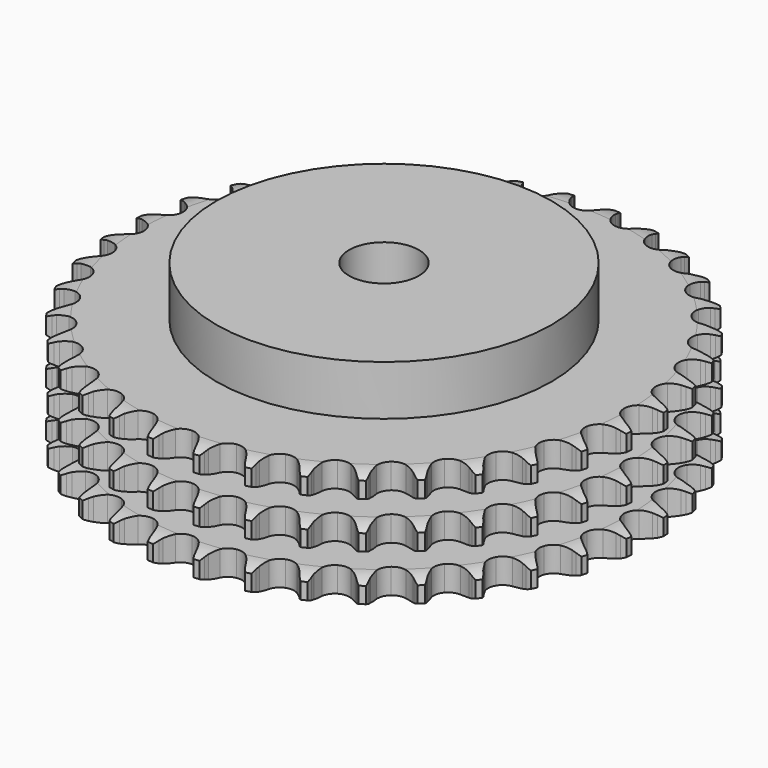
from build123d import *

# Parameters (mm, degrees)
PAD_DEPTH         = 42.1
SKETCH001_R       = 60
PAD001_DEPTH      = 60
SKETCH002_R       = 12.5
POCKET_DEPTH      = 0.001
POCKET_DEPTH_BACK = 60.001


with BuildPart() as part:
    # Sprocket → Pad (new body)
    with BuildSketch(Plane.XY):
        with BuildLine():
            ThreePointArc((-8.372787, 95.701394), (-7.235012, 94.299793), (-6.429379, 92.684252))
            Line((-6.429379, 92.684252), (-5.933775, 91.338848))
            ThreePointArc((-5.933775, 91.338848), (-5.149699, 89.605003), (-4.125721, 88.001114))
            ThreePointArc((-4.125721, 88.001114), (-2.308399, 86.476199), (0, 85.929099))
            ThreePointArc((0, 85.929099), (2.308399, 86.476199), (4.125721, 88.001114))
            ThreePointArc((4.125721, 88.001114), (5.149699, 89.605003), (5.933775, 91.338848))
            Line((5.933775, 91.338848), (6.429379, 92.684252))
            ThreePointArc((6.429379, 92.684252), (7.235012, 94.299793), (8.372787, 95.701394))
            ThreePointArc((8.372787, 95.701394), (9.249892, 94.123514), (9.762749, 92.39262))
            Line((9.762749, 92.39262), (10.017197, 90.981595))
            ThreePointArc((10.017197, 90.981595), (10.488282, 89.137938), (11.218191, 87.380603))
            ThreePointArc((11.218191, 87.380603), (12.743106, 85.563281), (14.921431, 84.623643))
            ThreePointArc((14.921431, 84.623643), (17.289763, 84.761582), (19.344275, 85.947755))
            Line((19.344275, 85.947755), (21.704452, 88.920817))
            ThreePointArc((21.704452, 88.920817), (22.04856, 89.550022), (22.426154, 90.15972))
            ThreePointArc((22.426154, 90.15972), (23.500083, 91.610821), (24.863958, 92.793556))
            ThreePointArc((24.863958, 92.793556), (25.453742, 91.08734), (25.658241, 89.293685))
            Line((25.658241, 89.293685), (25.663802, 87.859912))
            ThreePointArc((25.663802, 87.859912), (25.807582, 85.962461), (26.221244, 84.105077))
            ThreePointArc((26.221244, 84.105077), (27.407417, 82.050565), (29.389483, 80.74694))
            ThreePointArc((29.389483, 80.74694), (31.745787, 80.471528), (33.975063, 81.282918))
            Line((33.975063, 81.282918), (36.81565, 83.800971))
            ThreePointArc((36.81565, 83.800971), (37.263791, 84.360863), (37.741521, 84.89573))
            ThreePointArc((37.741521, 84.89573), (39.051116, 86.1383), (40.599651, 87.066232))
            ThreePointArc((40.599651, 87.066232), (40.884193, 85.283522), (40.77412, 83.481606))
            Line((40.77412, 83.481606), (40.530625, 82.06865))
            ThreePointArc((40.530625, 82.06865), (40.342732, 80.175059), (40.427578, 78.27406))
            ThreePointArc((40.427578, 78.27406), (41.238968, 76.044785), (42.964549, 74.416783))
            ThreePointArc((42.964549, 74.416783), (45.237232, 73.736386), (47.573536, 74.14834))
            Line((47.573536, 74.14834), (50.808224, 76.134876))
            ThreePointArc((50.808224, 76.134876), (51.34678, 76.608443), (51.910132, 77.052227))
            ThreePointArc((51.910132, 77.052227), (53.415601, 78.048511), (55.101743, 78.693445))
            ThreePointArc((55.101743, 78.693445), (55.072398, 76.888408), (54.651099, 75.132981))
            Line((54.651099, 75.132981), (54.165945, 73.783774))
            ThreePointArc((54.165945, 73.783774), (53.652088, 71.951577), (53.40554, 70.064726))
            ThreePointArc((53.40554, 70.064726), (53.817494, 67.728422), (55.23416, 65.825509))
            ThreePointArc((55.23416, 65.825509), (57.354165, 64.760802), (59.726511, 64.760802))
            Line((59.726511, 64.760802), (63.257015, 66.155461))
            ThreePointArc((63.257015, 66.155461), (63.869624, 66.528314), (64.501479, 66.867531))
            ThreePointArc((64.501479, 66.867531), (66.157079, 67.587257), (67.929597, 67.929597))
            ThreePointArc((67.929597, 67.929597), (67.587257, 66.157079), (66.867531, 64.501479))
            Line((66.867531, 64.501479), (66.155461, 63.257015))
            ThreePointArc((66.155461, 63.257015), (65.331252, 61.541884), (64.760802, 59.726511))
            ThreePointArc((64.760802, 59.726511), (64.760802, 57.354165), (65.825509, 55.23416))
            ThreePointArc((65.825509, 55.23416), (67.728422, 53.817494), (70.064726, 53.40554))
            Line((70.064726, 53.40554), (73.783774, 54.165945))
            ThreePointArc((73.783774, 54.165945), (74.451821, 54.426755), (75.132981, 54.651099))
            ThreePointArc((75.132981, 54.651099), (76.888408, 55.072398), (78.693445, 55.101743))
            ThreePointArc((78.693445, 55.101743), (78.048511, 53.415601), (77.052227, 51.910132))
            Line((77.052227, 51.910132), (76.134876, 50.808224))
            ThreePointArc((76.134876, 50.808224), (75.02536, 49.262272), (74.14834, 47.573536))
            ThreePointArc((74.14834, 47.573536), (73.736386, 45.237232), (74.416783, 42.964549))
            ThreePointArc((74.416783, 42.964549), (76.044785, 41.238968), (78.27406, 40.427578))
            Line((78.27406, 40.427578), (82.06865, 40.530625))
            ThreePointArc((82.06865, 40.530625), (82.771838, 40.671468), (83.481606, 40.77412))
            ThreePointArc((83.481606, 40.77412), (85.283522, 40.884193), (87.066232, 40.599651))
            ThreePointArc((87.066232, 40.599651), (86.1383, 39.051116), (84.89573, 37.741521))
            Line((84.89573, 37.741521), (83.800971, 36.81565))
            ThreePointArc((83.800971, 36.81565), (82.43986, 35.48585), (81.282918, 33.975063))
            ThreePointArc((81.282918, 33.975063), (80.471528, 31.745787), (80.74694, 29.389483))
            ThreePointArc((80.74694, 29.389483), (82.050565, 27.407417), (84.105077, 26.221244))
            Line((84.105077, 26.221244), (87.859912, 25.663802))
            ThreePointArc((87.859912, 25.663802), (88.576874, 25.680398), (89.293685, 25.658241))
            ThreePointArc((89.293685, 25.658241), (91.08734, 25.453742), (92.793556, 24.863958))
            ThreePointArc((92.793556, 24.863958), (91.610821, 23.500083), (90.15972, 22.426154))
            Line((90.15972, 22.426154), (88.920817, 21.704452))
            ThreePointArc((88.920817, 21.704452), (87.349466, 20.631209), (85.947755, 19.344275))
            ThreePointArc((85.947755, 19.344275), (84.761582, 17.289763), (84.623643, 14.921431))
            ThreePointArc((84.623643, 14.921431), (85.563281, 12.743106), (87.380603, 11.218191))
            Line((87.380603, 11.218191), (90.981595, 10.017197))
            ThreePointArc((90.981595, 10.017197), (91.690546, 9.909042), (92.39262, 9.762749))
            ThreePointArc((92.39262, 9.762749), (94.123514, 9.249892), (95.701394, 8.372787))
            ThreePointArc((95.701394, 8.372787), (94.299793, 7.235012), (92.684252, 6.429379))
            Line((92.684252, 6.429379), (91.338848, 5.933775))
            ThreePointArc((91.338848, 5.933775), (89.605003, 5.149699), (88.001114, 4.125721))
            ThreePointArc((88.001114, 4.125721), (86.476199, 2.308399), (85.929099, 0))
            ThreePointArc((85.929099, 0), (86.476199, -2.308399), (88.001114, -4.125721))
            Line((88.001114, -4.125721), (91.338848, -5.933775))
            ThreePointArc((91.338848, -5.933775), (92.018248, -6.163395), (92.684252, -6.429379))
            ThreePointArc((92.684252, -6.429379), (94.299793, -7.235012), (95.701394, -8.372787))
            ThreePointArc((95.701394, -8.372787), (94.123514, -9.249892), (92.39262, -9.762749))
            Line((92.39262, -9.762749), (90.981595, -10.017197))
            ThreePointArc((90.981595, -10.017197), (89.137938, -10.488282), (87.380603, -11.218191))
            ThreePointArc((87.380603, -11.218191), (85.563281, -12.743106), (84.623643, -14.921431))
            ThreePointArc((84.623643, -14.921431), (84.761582, -17.289763), (85.947755, -19.344275))
            Line((85.947755, -19.344275), (88.920817, -21.704452))
            ThreePointArc((88.920817, -21.704452), (89.550022, -22.04856), (90.15972, -22.426154))
            ThreePointArc((90.15972, -22.426154), (91.610821, -23.500083), (92.793556, -24.863958))
            ThreePointArc((92.793556, -24.863958), (91.08734, -25.453742), (89.293685, -25.658241))
            Line((89.293685, -25.658241), (87.859912, -25.663802))
            ThreePointArc((87.859912, -25.663802), (85.962461, -25.807582), (84.105077, -26.221244))
            ThreePointArc((84.105077, -26.221244), (82.050565, -27.407417), (80.74694, -29.389483))
            ThreePointArc((80.74694, -29.389483), (80.471528, -31.745787), (81.282918, -33.975063))
            Line((81.282918, -33.975063), (83.800971, -36.81565))
            ThreePointArc((83.800971, -36.81565), (84.360863, -37.263791), (84.89573, -37.741521))
            ThreePointArc((84.89573, -37.741521), (86.1383, -39.051116), (87.066232, -40.599651))
            ThreePointArc((87.066232, -40.599651), (85.283522, -40.884193), (83.481606, -40.77412))
            Line((83.481606, -40.77412), (82.06865, -40.530625))
            ThreePointArc((82.06865, -40.530625), (80.175059, -40.342732), (78.27406, -40.427578))
            ThreePointArc((78.27406, -40.427578), (76.044785, -41.238968), (74.416783, -42.964549))
            ThreePointArc((74.416783, -42.964549), (73.736386, -45.237232), (74.14834, -47.573536))
            Line((74.14834, -47.573536), (76.134876, -50.808224))
            ThreePointArc((76.134876, -50.808224), (76.608443, -51.34678), (77.052227, -51.910132))
            ThreePointArc((77.052227, -51.910132), (78.048511, -53.415601), (78.693445, -55.101743))
            ThreePointArc((78.693445, -55.101743), (76.888408, -55.072398), (75.132981, -54.651099))
            Line((75.132981, -54.651099), (73.783774, -54.165945))
            ThreePointArc((73.783774, -54.165945), (71.951577, -53.652088), (70.064726, -53.40554))
            ThreePointArc((70.064726, -53.40554), (67.728422, -53.817494), (65.825509, -55.23416))
            ThreePointArc((65.825509, -55.23416), (64.760802, -57.354165), (64.760802, -59.726511))
            Line((64.760802, -59.726511), (66.155461, -63.257015))
            ThreePointArc((66.155461, -63.257015), (66.528314, -63.869624), (66.867531, -64.501479))
            ThreePointArc((66.867531, -64.501479), (67.587257, -66.157079), (67.929597, -67.929597))
            ThreePointArc((67.929597, -67.929597), (66.157079, -67.587257), (64.501479, -66.867531))
            Line((64.501479, -66.867531), (63.257015, -66.155461))
            ThreePointArc((63.257015, -66.155461), (61.541884, -65.331252), (59.726511, -64.760802))
            ThreePointArc((59.726511, -64.760802), (57.354165, -64.760802), (55.23416, -65.825509))
            ThreePointArc((55.23416, -65.825509), (53.817494, -67.728422), (53.40554, -70.064726))
            Line((53.40554, -70.064726), (54.165945, -73.783774))
            ThreePointArc((54.165945, -73.783774), (54.426755, -74.451821), (54.651099, -75.132981))
            ThreePointArc((54.651099, -75.132981), (55.072398, -76.888408), (55.101743, -78.693445))
            ThreePointArc((55.101743, -78.693445), (53.415601, -78.048511), (51.910132, -77.052227))
            Line((51.910132, -77.052227), (50.808224, -76.134876))
            ThreePointArc((50.808224, -76.134876), (49.262272, -75.02536), (47.573536, -74.14834))
            ThreePointArc((47.573536, -74.14834), (45.237232, -73.736386), (42.964549, -74.416783))
            ThreePointArc((42.964549, -74.416783), (41.238968, -76.044785), (40.427578, -78.27406))
            Line((40.427578, -78.27406), (40.530625, -82.06865))
            ThreePointArc((40.530625, -82.06865), (40.671468, -82.771838), (40.77412, -83.481606))
            ThreePointArc((40.77412, -83.481606), (40.884193, -85.283522), (40.599651, -87.066232))
            ThreePointArc((40.599651, -87.066232), (39.051116, -86.1383), (37.741521, -84.89573))
            Line((37.741521, -84.89573), (36.81565, -83.800971))
            ThreePointArc((36.81565, -83.800971), (35.48585, -82.43986), (33.975063, -81.282918))
            ThreePointArc((33.975063, -81.282918), (31.745787, -80.471528), (29.389483, -80.74694))
            ThreePointArc((29.389483, -80.74694), (27.407417, -82.050565), (26.221244, -84.105077))
            Line((26.221244, -84.105077), (25.663802, -87.859912))
            ThreePointArc((25.663802, -87.859912), (25.680398, -88.576874), (25.658241, -89.293685))
            ThreePointArc((25.658241, -89.293685), (25.453742, -91.08734), (24.863958, -92.793556))
            ThreePointArc((24.863958, -92.793556), (23.500083, -91.610821), (22.426154, -90.15972))
            Line((22.426154, -90.15972), (21.704452, -88.920817))
            ThreePointArc((21.704452, -88.920817), (20.631209, -87.349466), (19.344275, -85.947755))
            ThreePointArc((19.344275, -85.947755), (17.289763, -84.761582), (14.921431, -84.623643))
            ThreePointArc((14.921431, -84.623643), (12.743106, -85.563281), (11.218191, -87.380603))
            Line((11.218191, -87.380603), (10.017197, -90.981595))
            ThreePointArc((10.017197, -90.981595), (9.909042, -91.690546), (9.762749, -92.39262))
            ThreePointArc((9.762749, -92.39262), (9.249892, -94.123514), (8.372787, -95.701394))
            ThreePointArc((8.372787, -95.701394), (7.235012, -94.299793), (6.429379, -92.684252))
            Line((6.429379, -92.684252), (5.933775, -91.338848))
            ThreePointArc((5.933775, -91.338848), (5.149699, -89.605003), (4.125721, -88.001114))
            ThreePointArc((4.125721, -88.001114), (2.308399, -86.476199), (0, -85.929099))
            ThreePointArc((0, -85.929099), (-2.308399, -86.476199), (-4.125721, -88.001114))
            Line((-4.125721, -88.001114), (-5.933775, -91.338848))
            ThreePointArc((-5.933775, -91.338848), (-6.163395, -92.018248), (-6.429379, -92.684252))
            ThreePointArc((-6.429379, -92.684252), (-7.235012, -94.299793), (-8.372787, -95.701394))
            ThreePointArc((-8.372787, -95.701394), (-9.249892, -94.123514), (-9.762749, -92.39262))
            Line((-9.762749, -92.39262), (-10.017197, -90.981595))
            ThreePointArc((-10.017197, -90.981595), (-10.488282, -89.137938), (-11.218191, -87.380603))
            ThreePointArc((-11.218191, -87.380603), (-12.743106, -85.563281), (-14.921431, -84.623643))
            ThreePointArc((-14.921431, -84.623643), (-17.289763, -84.761582), (-19.344275, -85.947755))
            Line((-19.344275, -85.947755), (-21.704452, -88.920817))
            ThreePointArc((-21.704452, -88.920817), (-22.04856, -89.550022), (-22.426154, -90.15972))
            ThreePointArc((-22.426154, -90.15972), (-23.500083, -91.610821), (-24.863958, -92.793556))
            ThreePointArc((-24.863958, -92.793556), (-25.453742, -91.08734), (-25.658241, -89.293685))
            Line((-25.658241, -89.293685), (-25.663802, -87.859912))
            ThreePointArc((-25.663802, -87.859912), (-25.807582, -85.962461), (-26.221244, -84.105077))
            ThreePointArc((-26.221244, -84.105077), (-27.407417, -82.050565), (-29.389483, -80.74694))
            ThreePointArc((-29.389483, -80.74694), (-31.745787, -80.471528), (-33.975063, -81.282918))
            Line((-33.975063, -81.282918), (-36.81565, -83.800971))
            ThreePointArc((-36.81565, -83.800971), (-37.263791, -84.360863), (-37.741521, -84.89573))
            ThreePointArc((-37.741521, -84.89573), (-39.051116, -86.1383), (-40.599651, -87.066232))
            ThreePointArc((-40.599651, -87.066232), (-40.884193, -85.283522), (-40.77412, -83.481606))
            Line((-40.77412, -83.481606), (-40.530625, -82.06865))
            ThreePointArc((-40.530625, -82.06865), (-40.342732, -80.175059), (-40.427578, -78.27406))
            ThreePointArc((-40.427578, -78.27406), (-41.238968, -76.044785), (-42.964549, -74.416783))
            ThreePointArc((-42.964549, -74.416783), (-45.237232, -73.736386), (-47.573536, -74.14834))
            Line((-47.573536, -74.14834), (-50.808224, -76.134876))
            ThreePointArc((-50.808224, -76.134876), (-51.34678, -76.608443), (-51.910132, -77.052227))
            ThreePointArc((-51.910132, -77.052227), (-53.415601, -78.048511), (-55.101743, -78.693445))
            ThreePointArc((-55.101743, -78.693445), (-55.072398, -76.888408), (-54.651099, -75.132981))
            Line((-54.651099, -75.132981), (-54.165945, -73.783774))
            ThreePointArc((-54.165945, -73.783774), (-53.652088, -71.951577), (-53.40554, -70.064726))
            ThreePointArc((-53.40554, -70.064726), (-53.817494, -67.728422), (-55.23416, -65.825509))
            ThreePointArc((-55.23416, -65.825509), (-57.354165, -64.760802), (-59.726511, -64.760802))
            Line((-59.726511, -64.760802), (-63.257015, -66.155461))
            ThreePointArc((-63.257015, -66.155461), (-63.869624, -66.528314), (-64.501479, -66.867531))
            ThreePointArc((-64.501479, -66.867531), (-66.157079, -67.587257), (-67.929597, -67.929597))
            ThreePointArc((-67.929597, -67.929597), (-67.587257, -66.157079), (-66.867531, -64.501479))
            Line((-66.867531, -64.501479), (-66.155461, -63.257015))
            ThreePointArc((-66.155461, -63.257015), (-65.331252, -61.541884), (-64.760802, -59.726511))
            ThreePointArc((-64.760802, -59.726511), (-64.760802, -57.354165), (-65.825509, -55.23416))
            ThreePointArc((-65.825509, -55.23416), (-67.728422, -53.817494), (-70.064726, -53.40554))
            Line((-70.064726, -53.40554), (-73.783774, -54.165945))
            ThreePointArc((-73.783774, -54.165945), (-74.451821, -54.426755), (-75.132981, -54.651099))
            ThreePointArc((-75.132981, -54.651099), (-76.888408, -55.072398), (-78.693445, -55.101743))
            ThreePointArc((-78.693445, -55.101743), (-78.048511, -53.415601), (-77.052227, -51.910132))
            Line((-77.052227, -51.910132), (-76.134876, -50.808224))
            ThreePointArc((-76.134876, -50.808224), (-75.02536, -49.262272), (-74.14834, -47.573536))
            ThreePointArc((-74.14834, -47.573536), (-73.736386, -45.237232), (-74.416783, -42.964549))
            ThreePointArc((-74.416783, -42.964549), (-76.044785, -41.238968), (-78.27406, -40.427578))
            Line((-78.27406, -40.427578), (-82.06865, -40.530625))
            ThreePointArc((-82.06865, -40.530625), (-82.771838, -40.671468), (-83.481606, -40.77412))
            ThreePointArc((-83.481606, -40.77412), (-85.283522, -40.884193), (-87.066232, -40.599651))
            ThreePointArc((-87.066232, -40.599651), (-86.1383, -39.051116), (-84.89573, -37.741521))
            Line((-84.89573, -37.741521), (-83.800971, -36.81565))
            ThreePointArc((-83.800971, -36.81565), (-82.43986, -35.48585), (-81.282918, -33.975063))
            ThreePointArc((-81.282918, -33.975063), (-80.471528, -31.745787), (-80.74694, -29.389483))
            ThreePointArc((-80.74694, -29.389483), (-82.050565, -27.407417), (-84.105077, -26.221244))
            Line((-84.105077, -26.221244), (-87.859912, -25.663802))
            ThreePointArc((-87.859912, -25.663802), (-88.576874, -25.680398), (-89.293685, -25.658241))
            ThreePointArc((-89.293685, -25.658241), (-91.08734, -25.453742), (-92.793556, -24.863958))
            ThreePointArc((-92.793556, -24.863958), (-91.610821, -23.500083), (-90.15972, -22.426154))
            Line((-90.15972, -22.426154), (-88.920817, -21.704452))
            ThreePointArc((-88.920817, -21.704452), (-87.349466, -20.631209), (-85.947755, -19.344275))
            ThreePointArc((-85.947755, -19.344275), (-84.761582, -17.289763), (-84.623643, -14.921431))
            ThreePointArc((-84.623643, -14.921431), (-85.563281, -12.743106), (-87.380603, -11.218191))
            Line((-87.380603, -11.218191), (-90.981595, -10.017197))
            ThreePointArc((-90.981595, -10.017197), (-91.690546, -9.909042), (-92.39262, -9.762749))
            ThreePointArc((-92.39262, -9.762749), (-94.123514, -9.249892), (-95.701394, -8.372787))
            ThreePointArc((-95.701394, -8.372787), (-94.299793, -7.235012), (-92.684252, -6.429379))
            Line((-92.684252, -6.429379), (-91.338848, -5.933775))
            ThreePointArc((-91.338848, -5.933775), (-89.605003, -5.149699), (-88.001114, -4.125721))
            ThreePointArc((-88.001114, -4.125721), (-86.476199, -2.308399), (-85.929099, 0))
            ThreePointArc((-85.929099, 0), (-86.476199, 2.308399), (-88.001114, 4.125721))
            Line((-88.001114, 4.125721), (-91.338848, 5.933775))
            ThreePointArc((-91.338848, 5.933775), (-92.018248, 6.163395), (-92.684252, 6.429379))
            ThreePointArc((-92.684252, 6.429379), (-94.299793, 7.235012), (-95.701394, 8.372787))
            ThreePointArc((-95.701394, 8.372787), (-94.123514, 9.249892), (-92.39262, 9.762749))
            Line((-92.39262, 9.762749), (-90.981595, 10.017197))
            ThreePointArc((-90.981595, 10.017197), (-89.137938, 10.488282), (-87.380603, 11.218191))
            ThreePointArc((-87.380603, 11.218191), (-85.563281, 12.743106), (-84.623643, 14.921431))
            ThreePointArc((-84.623643, 14.921431), (-84.761582, 17.289763), (-85.947755, 19.344275))
            Line((-85.947755, 19.344275), (-88.920817, 21.704452))
            ThreePointArc((-88.920817, 21.704452), (-89.550022, 22.04856), (-90.15972, 22.426154))
            ThreePointArc((-90.15972, 22.426154), (-91.610821, 23.500083), (-92.793556, 24.863958))
            ThreePointArc((-92.793556, 24.863958), (-91.08734, 25.453742), (-89.293685, 25.658241))
            Line((-89.293685, 25.658241), (-87.859912, 25.663802))
            ThreePointArc((-87.859912, 25.663802), (-85.962461, 25.807582), (-84.105077, 26.221244))
            ThreePointArc((-84.105077, 26.221244), (-82.050565, 27.407417), (-80.74694, 29.389483))
            ThreePointArc((-80.74694, 29.389483), (-80.471528, 31.745787), (-81.282918, 33.975063))
            Line((-81.282918, 33.975063), (-83.800971, 36.81565))
            ThreePointArc((-83.800971, 36.81565), (-84.360863, 37.263791), (-84.89573, 37.741521))
            ThreePointArc((-84.89573, 37.741521), (-86.1383, 39.051116), (-87.066232, 40.599651))
            ThreePointArc((-87.066232, 40.599651), (-85.283522, 40.884193), (-83.481606, 40.77412))
            Line((-83.481606, 40.77412), (-82.06865, 40.530625))
            ThreePointArc((-82.06865, 40.530625), (-80.175059, 40.342732), (-78.27406, 40.427578))
            ThreePointArc((-78.27406, 40.427578), (-76.044785, 41.238968), (-74.416783, 42.964549))
            ThreePointArc((-74.416783, 42.964549), (-73.736386, 45.237232), (-74.14834, 47.573536))
            Line((-74.14834, 47.573536), (-76.134876, 50.808224))
            ThreePointArc((-76.134876, 50.808224), (-76.608443, 51.34678), (-77.052227, 51.910132))
            ThreePointArc((-77.052227, 51.910132), (-78.048511, 53.415601), (-78.693445, 55.101743))
            ThreePointArc((-78.693445, 55.101743), (-76.888408, 55.072398), (-75.132981, 54.651099))
            Line((-75.132981, 54.651099), (-73.783774, 54.165945))
            ThreePointArc((-73.783774, 54.165945), (-71.951577, 53.652088), (-70.064726, 53.40554))
            ThreePointArc((-70.064726, 53.40554), (-67.728422, 53.817494), (-65.825509, 55.23416))
            ThreePointArc((-65.825509, 55.23416), (-64.760802, 57.354165), (-64.760802, 59.726511))
            Line((-64.760802, 59.726511), (-66.155461, 63.257015))
            ThreePointArc((-66.155461, 63.257015), (-66.528314, 63.869624), (-66.867531, 64.501479))
            ThreePointArc((-66.867531, 64.501479), (-67.587257, 66.157079), (-67.929597, 67.929597))
            ThreePointArc((-67.929597, 67.929597), (-66.157079, 67.587257), (-64.501479, 66.867531))
            Line((-64.501479, 66.867531), (-63.257015, 66.155461))
            ThreePointArc((-63.257015, 66.155461), (-61.541884, 65.331252), (-59.726511, 64.760802))
            ThreePointArc((-59.726511, 64.760802), (-57.354165, 64.760802), (-55.23416, 65.825509))
            ThreePointArc((-55.23416, 65.825509), (-53.817494, 67.728422), (-53.40554, 70.064726))
            Line((-53.40554, 70.064726), (-54.165945, 73.783774))
            ThreePointArc((-54.165945, 73.783774), (-54.426755, 74.451821), (-54.651099, 75.132981))
            ThreePointArc((-54.651099, 75.132981), (-55.072398, 76.888408), (-55.101743, 78.693445))
            ThreePointArc((-55.101743, 78.693445), (-53.415601, 78.048511), (-51.910132, 77.052227))
            Line((-51.910132, 77.052227), (-50.808224, 76.134876))
            ThreePointArc((-50.808224, 76.134876), (-49.262272, 75.02536), (-47.573536, 74.14834))
            ThreePointArc((-47.573536, 74.14834), (-45.237232, 73.736386), (-42.964549, 74.416783))
            ThreePointArc((-42.964549, 74.416783), (-41.238968, 76.044785), (-40.427578, 78.27406))
            Line((-40.427578, 78.27406), (-40.530625, 82.06865))
            ThreePointArc((-40.530625, 82.06865), (-40.671468, 82.771838), (-40.77412, 83.481606))
            ThreePointArc((-40.77412, 83.481606), (-40.884193, 85.283522), (-40.599651, 87.066232))
            ThreePointArc((-40.599651, 87.066232), (-39.051116, 86.1383), (-37.741521, 84.89573))
            Line((-37.741521, 84.89573), (-36.81565, 83.800971))
            ThreePointArc((-36.81565, 83.800971), (-35.48585, 82.43986), (-33.975063, 81.282918))
            ThreePointArc((-33.975063, 81.282918), (-31.745787, 80.471528), (-29.389483, 80.74694))
            ThreePointArc((-29.389483, 80.74694), (-27.407417, 82.050565), (-26.221244, 84.105077))
            Line((-26.221244, 84.105077), (-25.663802, 87.859912))
            ThreePointArc((-25.663802, 87.859912), (-25.680398, 88.576874), (-25.658241, 89.293685))
            ThreePointArc((-25.658241, 89.293685), (-25.453742, 91.08734), (-24.863958, 92.793556))
            ThreePointArc((-24.863958, 92.793556), (-23.500083, 91.610821), (-22.426154, 90.15972))
            Line((-22.426154, 90.15972), (-21.704452, 88.920817))
            ThreePointArc((-21.704452, 88.920817), (-20.631209, 87.349466), (-19.344275, 85.947755))
            ThreePointArc((-19.344275, 85.947755), (-17.289763, 84.761582), (-14.921431, 84.623643))
            ThreePointArc((-14.921431, 84.623643), (-12.743106, 85.563281), (-11.218191, 87.380603))
            Line((-11.218191, 87.380603), (-10.017197, 90.981595))
            ThreePointArc((-10.017197, 90.981595), (-9.909042, 91.690546), (-9.762749, 92.39262))
            ThreePointArc((-9.762749, 92.39262), (-9.249892, 94.123514), (-8.372787, 95.701394))
        make_face()
    extrude(amount=PAD_DEPTH)

    # Sketch → Groove (revolve, cut)
    with BuildSketch(Plane.XZ):
        with BuildLine():
            ThreePointArc((87.575762, 0), (91.15347, 0.405129), (94.55, 1.6))
            Line((94.55, 1.6), (94.55, 7.4))
            ThreePointArc((94.55, 7.4), (91.15347, 8.594871), (87.575762, 9))
            Line((60, 9), (87.575762, 9))
            Line((60, 9), (60, 16.55))
            Line((60, 16.55), (87.575762, 16.55))
            ThreePointArc((87.575762, 16.55), (91.15347, 16.955129), (94.55, 18.15))
            Line((94.55, 23.95), (94.55, 18.15))
            ThreePointArc((94.55, 23.95), (91.15347, 25.144871), (87.575762, 25.55))
            Line((60, 25.55), (87.575762, 25.55))
            Line((60, 33.1), (60, 25.55))
            Line((87.575762, 33.1), (60, 33.1))
            ThreePointArc((87.575762, 33.1), (91.15347, 33.505129), (94.55, 34.7))
            Line((94.55, 34.7), (94.55, 40.5))
            ThreePointArc((94.55, 40.5), (91.15347, 41.694871), (87.575762, 42.1))
            Line((87.575762, 42.1), (104.55, 42.1))
            Line((104.55, 42.1), (104.55, 0))
            Line((87.575762, 0), (104.55, 0))
        make_face()
    revolve(axis=Axis((0, 0, 0), (0, 0, 1)), mode=Mode.SUBTRACT)

    # Sketch001 → Pad001 (join)
    with BuildSketch(Plane.XY):
        Circle(SKETCH001_R)
    extrude(amount=PAD001_DEPTH)

    # Sketch002 → Pocket (cut, two sides)
    with BuildSketch(Plane.XY) as pocket_sk:
        Circle(SKETCH002_R)
    extrude(amount=-POCKET_DEPTH, mode=Mode.SUBTRACT)
    extrude(pocket_sk.sketch, amount=POCKET_DEPTH_BACK, mode=Mode.SUBTRACT)


solid = part.part
